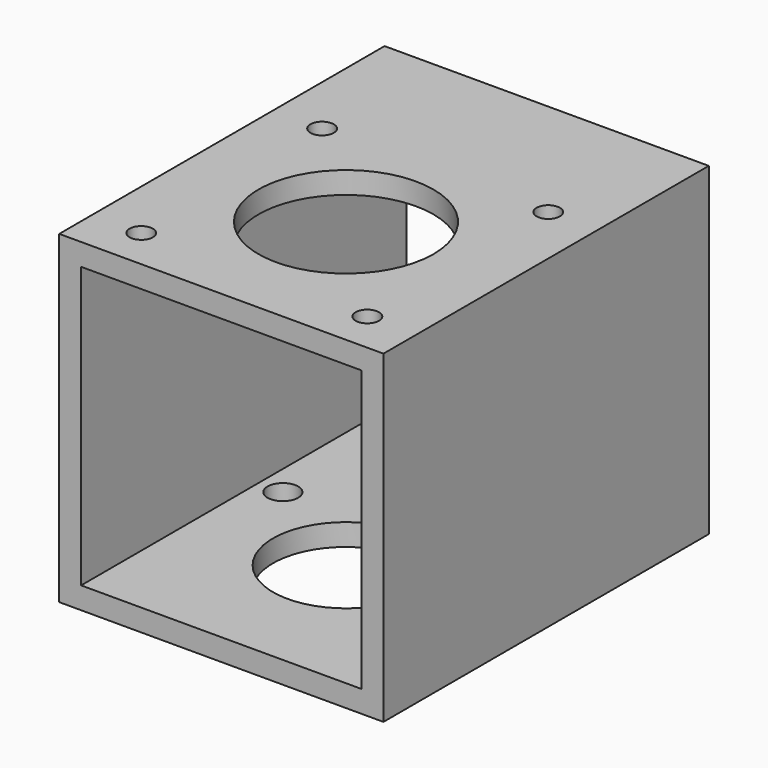
from build123d import *

# Parameters (mm, degrees)
F0_W     = 44.45
F0_H     = 44.45
F0_W_2   = 38.45
F0_H_2   = 38.45
F1_DEPTH = 55.755
F2_R     = 10
F3_DEPTH = 44.451
F4_R     = 1.6
F4_R_2   = 12
F5_DEPTH = 5
F6_R     = 2.1
F7_DEPTH = 5


with BuildPart() as f1:
    # F0 (on Front) → F1 (new body)
    with BuildSketch(Plane.XZ):
        with Locations((22.225, 22.225)):
            Rectangle(F0_W, F0_H)
        with Locations((22.225, 22.225)):
            Rectangle(F0_W_2, F0_H_2, mode=Mode.SUBTRACT)
    extrude(amount=-F1_DEPTH)

    # F2 (on face) → F3 (cut, through all)
    with BuildSketch(Plane.XY.offset(44.45)):
        with Locations((22.225, 21.36)):
            Circle(F2_R)
    extrude(amount=-F3_DEPTH, mode=Mode.SUBTRACT)

    # F4 (on face) → F5 (cut)
    with BuildSketch(Plane.XY.offset(44.45)):
        with Locations((37.725, 5.65)):
            Circle(F4_R)
        with Locations((6.725, 5.65)):
            Circle(F4_R)
        with Locations((37.725, 36.65)):
            Circle(F4_R)
        with Locations((6.725, 36.65)):
            Circle(F4_R)
        with Locations((22.225, 21.36)):
            Circle(F4_R_2)
    extrude(amount=-F5_DEPTH, mode=Mode.SUBTRACT)

    # F6 (on face) → F7 (cut)
    with BuildSketch(Plane(origin=(0, 0, 0), x_dir=(1, 0, 0), z_dir=(0, 0, -1))):
        with Locations((38.090564, -12.340778)):
            Circle(F6_R)
        with Locations((6.359436, -30.379222)):
            Circle(F6_R)
    extrude(amount=-F7_DEPTH, mode=Mode.SUBTRACT)


solid = f1.part
